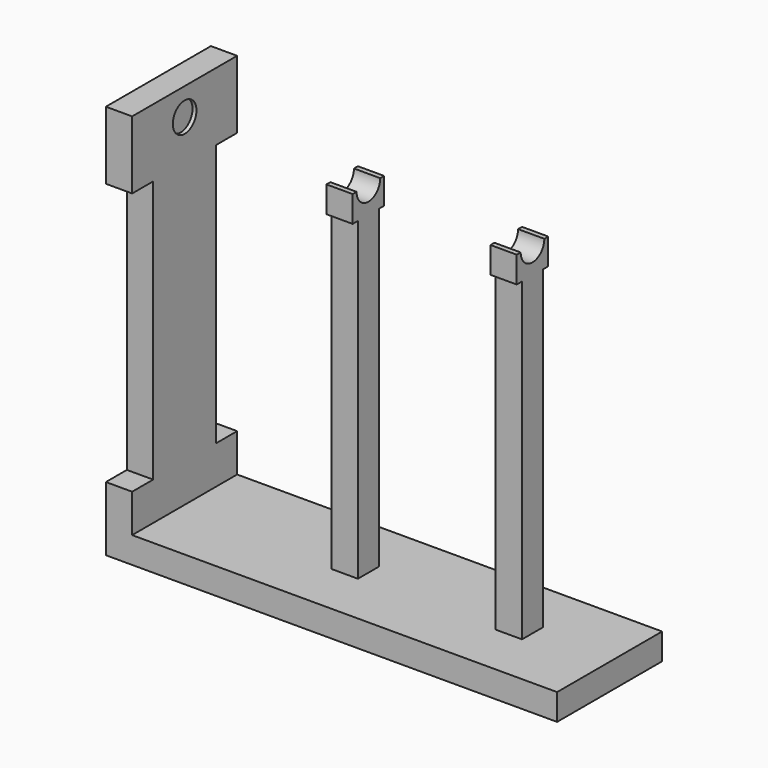
from build123d import *

# Parameters (mm, degrees)
F0_W      = 411.1625
F0_H      = 127
F1_DEPTH  = 25.4
F2_W      = 25.4
F2_H      = 25.4
F3_DEPTH  = 304.8
F4_W      = 25.4
F4_H      = 38.1
F5_DEPTH  = 25.4
F7_DEPTH  = 258.7635
F8_W      = 127
F8_H      = 382.02858
F9_DEPTH  = 25.4
F10_W     = 89.525855
F10_H     = 254
F11_DEPTH = 25.4
F12_R     = 14.2875
F13_DEPTH = 340.36


with BuildPart() as f1:
    # F0 (on Top) → F1 (new body)
    with BuildSketch(Plane.XY):
        with Locations((0, 6.35)):
            Rectangle(F0_W, F0_H)
    extrude(amount=F1_DEPTH)

    # F2 (on face) → F3 (join)
    with BuildSketch(Plane.XY.offset(25.4)):
        with Locations((-40.48125, 6.35)):
            Rectangle(F2_W, F2_H)
        with Locations((118.26875, 6.35)):
            Rectangle(F2_W, F2_H)
    extrude(amount=F3_DEPTH)

    # F4 (on face) → F5 (join)
    with BuildSketch(Plane.XY.offset(330.2)):
        with Locations((-40.48125, 6.35)):
            Rectangle(F4_W, F4_H)
        with Locations((118.26875, 6.35)):
            Rectangle(F4_W, F4_H)
    extrude(amount=F5_DEPTH)

    # F6 (on face) → F7 (cut, through all)
    with BuildSketch(Plane(origin=(-53.18125, 0, 0), x_dir=(0, -1, 0), z_dir=(-1, 0, 0))):
        with BuildLine():
            Line((7.9375, 355.6), (-20.6375, 355.6))
            ThreePointArc((-20.6375, 355.6), (-6.35, 341.3125), (7.9375, 355.6))
        make_face()
    extrude(amount=-F7_DEPTH, mode=Mode.SUBTRACT)

    # F8 (on face) → F9 (join)
    with BuildSketch(Plane(origin=(-205.58125, 0, 0), x_dir=(0, -1, 0), z_dir=(-1, 0, 0))):
        with Locations((-6.35, 191.01429)):
            Rectangle(F8_W, F8_H)
    extrude(amount=F9_DEPTH)

    # F10 (on face) → F11 (cut)
    with BuildSketch(Plane(origin=(-230.98125, 0, 0), x_dir=(0, -1, 0), z_dir=(-1, 0, 0))):
        with Locations((-89.212927, 189.356351)):
            Rectangle(F10_W, F10_H)
        with Locations((76.512927, 189.356351)):
            Rectangle(F10_W, F10_H)
    extrude(amount=-F11_DEPTH, mode=Mode.SUBTRACT)

    # F12 (on face) → F13 (cut)
    with BuildSketch(Plane.YZ.offset(130.96875)):
        with Locations((6.35, 355.6)):
            Circle(F12_R)
    extrude(amount=-F13_DEPTH, mode=Mode.SUBTRACT)


solid = f1.part
